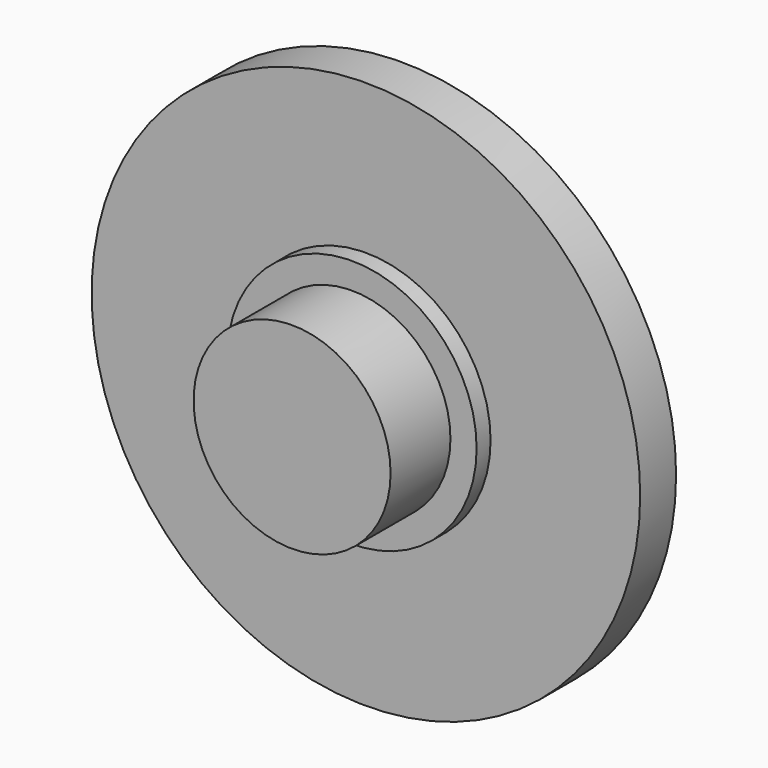
from build123d import *

# Parameters (mm, degrees)
F0_R     = 11
F1_DEPTH = 1.8
F2_R     = 3.95
F3_DEPTH = 5.5
F4_R     = 5
F5_DEPTH = 2.5


with BuildPart() as f1:
    # F0 (on Front) → F1 (new body)
    with BuildSketch(Plane.XZ):
        Circle(F0_R)
    extrude(amount=F1_DEPTH)

    # F2 (on Front) → F3 (join)
    with BuildSketch(Plane.XZ):
        Circle(F2_R)
    extrude(amount=F3_DEPTH)

    # F4 (on Front) → F5 (join)
    with BuildSketch(Plane.XZ):
        Circle(F4_R)
    extrude(amount=F5_DEPTH)


solid = f1.part
